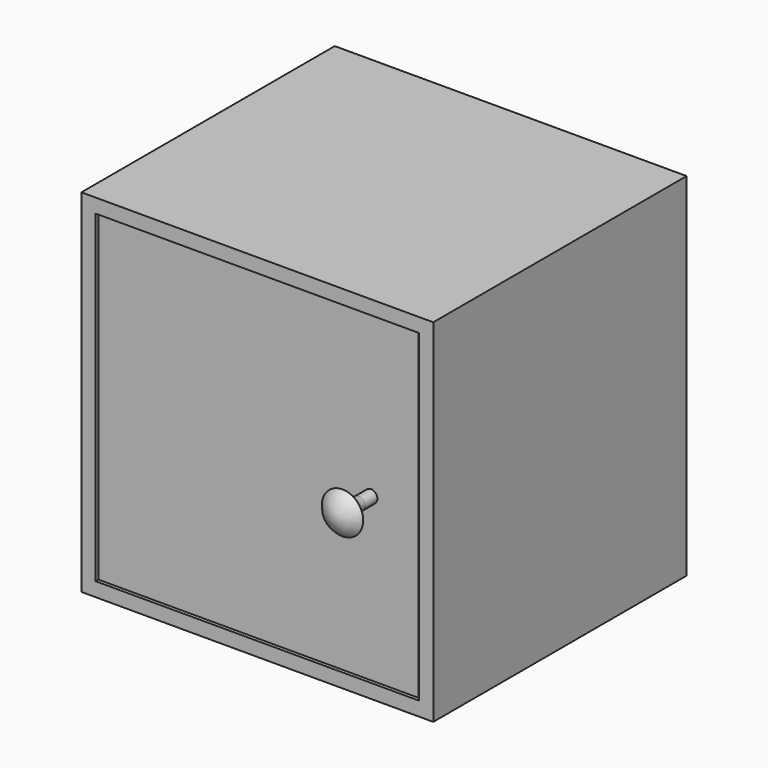
from build123d import *

# Parameters (mm, degrees)
F0_W     = 500
F0_H     = 500
F0_W_2   = 460
F0_H_2   = 460
F1_DEPTH = 450
F2_W     = 20
F2_H     = 460
F3_DEPTH = 455


with BuildPart() as f1:
    # F0 (on Front) → F1 (new body)
    with BuildSketch(Plane.XZ):
        Rectangle(F0_W, F0_H)
        Rectangle(F0_W_2, F0_H_2, mode=Mode.SUBTRACT)
    extrude(amount=F1_DEPTH)

    # F2 (on face) → F3 (join)
    with BuildSketch(Plane.YZ.offset(-230)):
        with Locations((-435, 0)):
            Rectangle(F2_W, F2_H)
    extrude(amount=F3_DEPTH)

    # F4 (on Top) → F5 (revolve)
    with BuildSketch(Plane.XY):
        with BuildLine():
            Line((166.631432, -424.459219), (157.49906, -426.544428))
            Line((157.49906, -426.544428), (157.49906, -511.243738))
            ThreePointArc((157.49906, -511.243738), (174.167415, -507.082896), (186.924866, -495.576632))
            ThreePointArc((186.924866, -495.576632), (172.751683, -483.986573), (166.631432, -466.731107))
            Line((166.631432, -466.731107), (166.631432, -424.459219))
        make_face()
    revolve(axis=Axis((157.49906, -468.894083, 0), (0, -1, 0)))


solid = f1.part
